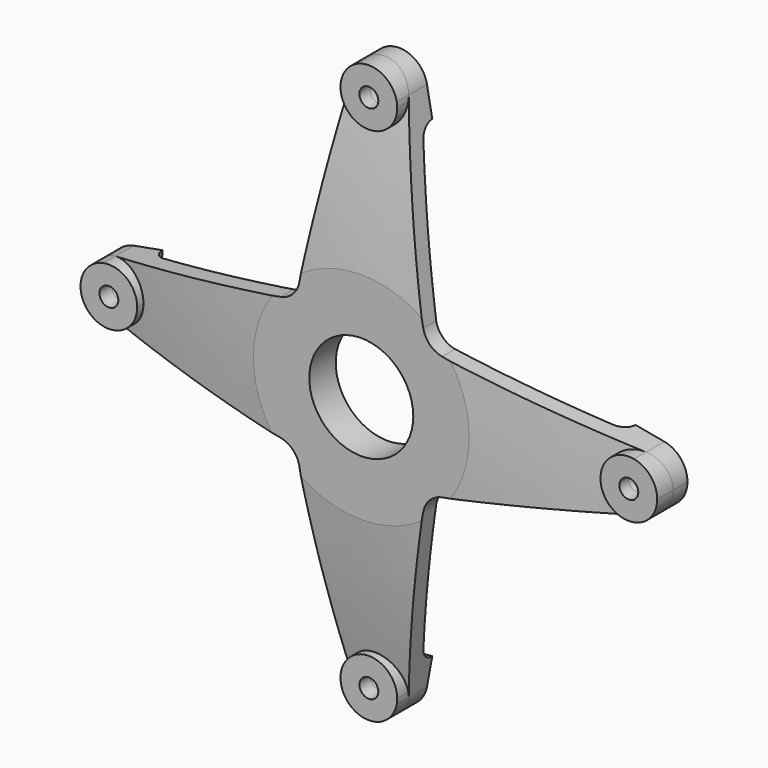
from build123d import *

# Parameters (mm, degrees)
F0_R     = 16
F0_R_2   = 11
F0_R_3   = 2
F1_DEPTH = 10
F4_DEPTH = 8


with BuildPart() as f1:
    # F0 (on Front) → F1 (new body)
    with BuildSketch(Plane.XZ):
        with BuildLine():
            ThreePointArc((5.8999929962, 56.0909090909), (5.9749459402, 55.5477417378), (6, 55))
            ThreePointArc((6, 55), (-0.5477417378, 49.0250540598), (-5.8999929962, 56.0909090909))
            Line((-5.8999929962, 56.0909090909), (-13.1067642486, 17.1143341696))
            ThreePointArc((-13.1067642486, 17.1143341696), (-14.4878911728, 14.4878911728), (-17.1143341696, 13.1067642486))
            Line((-17.1143341696, 13.1067642486), (-56.0909090909, 5.8999929962))
            ThreePointArc((-56.0909090909, 5.8999929962), (-51.1623871056, 4.6122366887), (-49, 0))
            ThreePointArc((-49, 0), (-51.1623871056, -4.6122366887), (-56.0909090909, -5.8999929962))
            Line((-56.0909090909, -5.8999929962), (-17.1143341696, -13.1067642486))
            ThreePointArc((-17.1143341696, -13.1067642486), (-14.4878911728, -14.4878911728), (-13.1067642486, -17.1143341696))
            Line((-13.1067642486, -17.1143341696), (-5.8999929962, -56.0909090909))
            ThreePointArc((-5.8999929962, -56.0909090909), (-0.5477417378, -49.0250540598), (6, -55))
            ThreePointArc((6, -55), (5.9749459402, -55.5477417378), (5.8999929962, -56.0909090909))
            Line((5.8999929962, -56.0909090909), (13.1067642486, -17.1143341696))
            ThreePointArc((13.1067642486, -17.1143341696), (14.4878911728, -14.4878911728), (17.1143341696, -13.1067642486))
            Line((17.1143341696, -13.1067642486), (56.0909090909, -5.8999929962))
            ThreePointArc((56.0909090909, -5.8999929962), (49, 0), (56.0909090909, 5.8999929962))
            Line((56.0909090909, 5.8999929962), (17.1143341696, 13.1067642486))
            ThreePointArc((17.1143341696, 13.1067642486), (14.4878911728, 14.4878911728), (13.1067642486, 17.1143341696))
            Line((13.1067642486, 17.1143341696), (5.8999929962, 56.0909090909))
        make_face()
        Circle(F0_R, mode=Mode.SUBTRACT)
        Circle(F0_R)
        Circle(F0_R_2, mode=Mode.SUBTRACT)
        with BuildLine():
            ThreePointArc((-49, 0), (-51.1623871056, 4.6122366887), (-56.0909090909, 5.8999929962))
            ThreePointArc((-56.0909090909, 5.8999929962), (-61, 0), (-56.0909090909, -5.8999929962))
            ThreePointArc((-56.0909090909, -5.8999929962), (-51.1623871056, -4.6122366887), (-49, 0))
        make_face()
        with Locations((-55, 0)):
            Circle(F0_R_3, mode=Mode.SUBTRACT)
        with BuildLine():
            ThreePointArc((-5.8999929962, -56.0909090909), (0, -61), (5.8999929962, -56.0909090909))
            ThreePointArc((5.8999929962, -56.0909090909), (5.9749459402, -55.5477417378), (6, -55))
            ThreePointArc((6, -55), (-0.5477417378, -49.0250540598), (-5.8999929962, -56.0909090909))
        make_face()
        with Locations((0, -55)):
            Circle(F0_R_3, mode=Mode.SUBTRACT)
        with BuildLine():
            ThreePointArc((61, 0), (59.6122366887, 3.8376128944), (56.0909090909, 5.8999929962))
            ThreePointArc((56.0909090909, 5.8999929962), (49, 0), (56.0909090909, -5.8999929962))
            ThreePointArc((56.0909090909, -5.8999929962), (59.6122366887, -3.8376128944), (61, 0))
        make_face()
        with Locations((55, 0)):
            Circle(F0_R_3, mode=Mode.SUBTRACT)
        with BuildLine():
            ThreePointArc((-5.8999929962, 56.0909090909), (-0.5477417378, 49.0250540598), (6, 55))
            ThreePointArc((6, 55), (5.9749459402, 55.5477417378), (5.8999929962, 56.0909090909))
            ThreePointArc((5.8999929962, 56.0909090909), (0, 61), (-5.8999929962, 56.0909090909))
        make_face()
        with Locations((0, 55)):
            Circle(F0_R_3, mode=Mode.SUBTRACT)
    extrude(amount=F1_DEPTH)

    # F2 (on Right) → F3 (revolve, cut)
    with BuildSketch(Plane.YZ):
        with BuildLine():
            ThreePointArc((-10.9521028848, 5), (-8.6103056942, 35.2379027289), (-2.7765811937, 65))
            Line((-2.7765811937, 65), (-20, 65))
            Line((-20, 65), (-20, 5))
            Line((-20, 5), (-10.9521028848, 5))
        make_face()
    revolve(axis=Axis((0, -10, 0), (0, -1, 0)), mode=Mode.SUBTRACT)

    # F0 (on Front) → F4 (join)
    with BuildSketch(Plane.XZ):
        with BuildLine():
            ThreePointArc((-5.8999929962, 56.0909090909), (-0.5477417378, 49.0250540598), (6, 55))
            ThreePointArc((6, 55), (5.9749459402, 55.5477417378), (5.8999929962, 56.0909090909))
            ThreePointArc((5.8999929962, 56.0909090909), (0, 61), (-5.8999929962, 56.0909090909))
        make_face()
        with Locations((0, 55)):
            Circle(F0_R_3, mode=Mode.SUBTRACT)
        with BuildLine():
            ThreePointArc((-49, 0), (-51.1623871056, 4.6122366887), (-56.0909090909, 5.8999929962))
            ThreePointArc((-56.0909090909, 5.8999929962), (-61, 0), (-56.0909090909, -5.8999929962))
            ThreePointArc((-56.0909090909, -5.8999929962), (-51.1623871056, -4.6122366887), (-49, 0))
        make_face()
        with Locations((-55, 0)):
            Circle(F0_R_3, mode=Mode.SUBTRACT)
        with BuildLine():
            ThreePointArc((61, 0), (59.6122366887, 3.8376128944), (56.0909090909, 5.8999929962))
            ThreePointArc((56.0909090909, 5.8999929962), (49, 0), (56.0909090909, -5.8999929962))
            ThreePointArc((56.0909090909, -5.8999929962), (59.6122366887, -3.8376128944), (61, 0))
        make_face()
        with Locations((55, 0)):
            Circle(F0_R_3, mode=Mode.SUBTRACT)
        with BuildLine():
            ThreePointArc((-5.8999929962, -56.0909090909), (0, -61), (5.8999929962, -56.0909090909))
            ThreePointArc((5.8999929962, -56.0909090909), (5.9749459402, -55.5477417378), (6, -55))
            ThreePointArc((6, -55), (-0.5477417378, -49.0250540598), (-5.8999929962, -56.0909090909))
        make_face()
        with Locations((0, -55)):
            Circle(F0_R_3, mode=Mode.SUBTRACT)
    extrude(amount=F4_DEPTH)

    # F2 (on Right) → F5 (revolve, cut)
    with BuildSketch(Plane.YZ):
        with BuildLine():
            Line((-3, 16.2006961798), (-3, 47.5))
            ThreePointArc((-3, 47.5), (-2.9867892515, 47.7812293856), (-2.9472733551, 48.0599819375))
            ThreePointArc((-2.9472733551, 48.0599819375), (-5.1118601192, 34.7853961907), (-6.5802890917, 21.4158868893))
            ThreePointArc((-6.5802890917, 21.4158868893), (-5.7197259879, 18.1701230605), (-3, 16.2006961798))
        make_face()
        with BuildLine():
            ThreePointArc((-2.9472733551, 48.0599819375), (-2.9867892515, 47.7812293856), (-3, 47.5))
            Line((-3, 47.5), (-3, 16.2006961798))
            ThreePointArc((-3, 16.2006961798), (-2.3059516976, 16.0504283468), (-1.5976153019, 16))
            Line((-1.5976153019, 16), (0, 16))
            Line((0, 16), (0, 50.5))
            ThreePointArc((0, 50.5), (-1.913119728, 49.8108381393), (-2.9472733551, 48.0599819375))
        make_face()
        with BuildLine():
            ThreePointArc((-1.5976153019, 16), (-2.3059516976, 16.0504283468), (-3, 16.2006961798))
            Line((-3, 16.2006961798), (-3, 11))
            Line((-3, 11), (0, 11))
            Line((0, 11), (0, 16))
            Line((0, 16), (-1.5976153019, 16))
        make_face()
    revolve(axis=Axis((0, -10, 0), (0, -1, 0)), mode=Mode.SUBTRACT)


solid = f1.part
